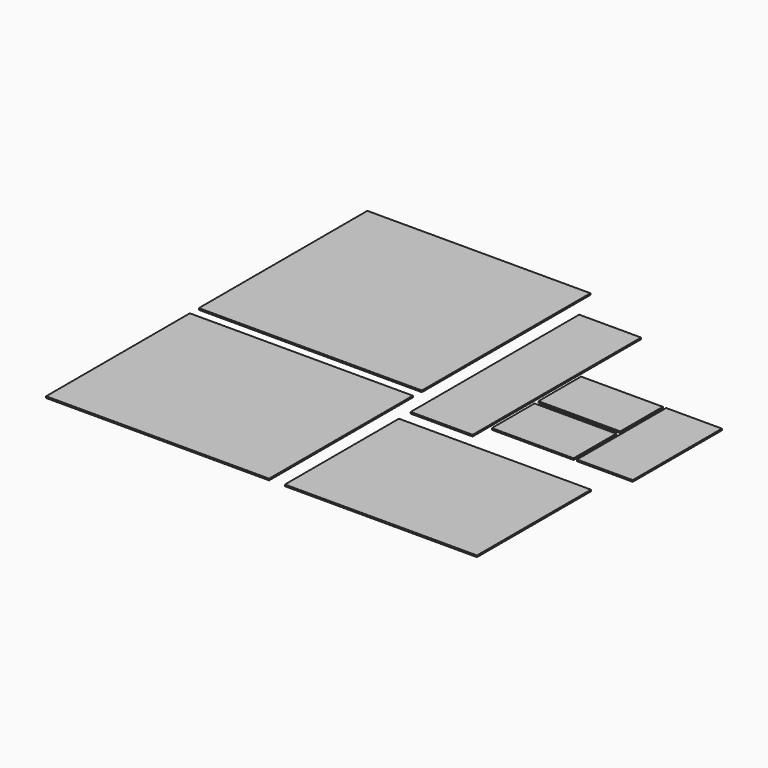
from build123d import *

# Parameters (mm, degrees)
F0_W     = 3600
F0_H     = 3400
F0_H_2   = 2900
F0_W_2   = 1000
F0_W_3   = 3100
F0_H_3   = 2300
F0_W_4   = 1320
F0_H_4   = 860
F0_W_5   = 900
F0_H_5   = 1800
F1_DEPTH = 25


with BuildPart() as f1:
    # F0 (on Top) → F1 (new body)
    with BuildSketch(Plane.XY):
        with Locations((-1495.252092, 2612.852145)):
            Rectangle(F0_W, F0_H)
        with Locations((-1495.252092, -719.210047)):
            Rectangle(F0_W, F0_H_2)
        with Locations((1059.9719, 2067.780676)):
            Rectangle(F0_W_2, F0_H)
        with Locations((2109.9719, -1019.210047)):
            Rectangle(F0_W_3, F0_H_3)
        with Locations((2294.563088, 2032.907422)):
            Rectangle(F0_W_4, F0_H_4)
        with Locations((2294.563088, 1092.907422)):
            Rectangle(F0_W_4, F0_H_4)
        with Locations((3458.208275, 1562.907422)):
            Rectangle(F0_W_5, F0_H_5)
    extrude(amount=F1_DEPTH)


solid = f1.part
